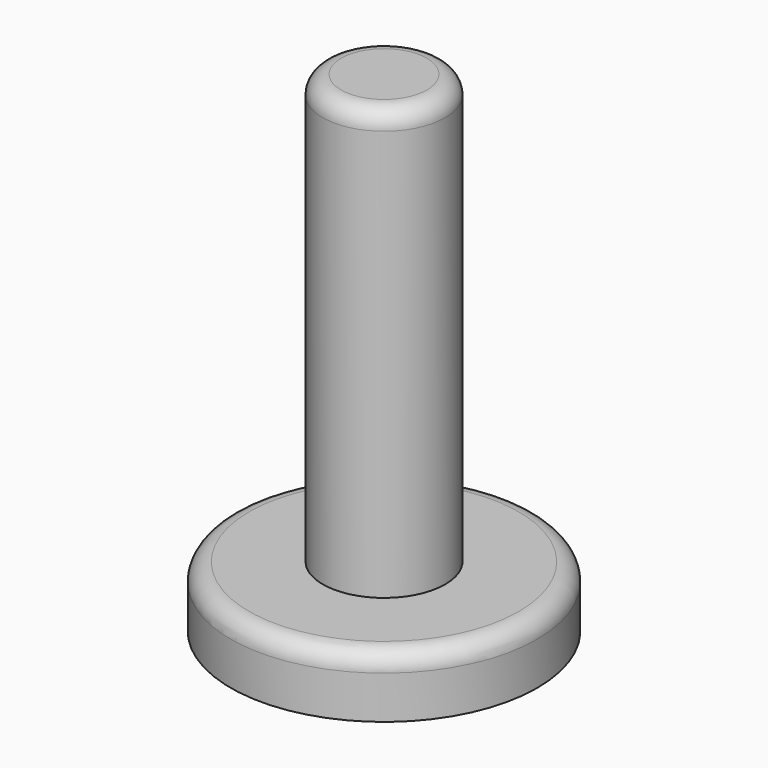
from build123d import *

# Parameters (mm, degrees)
F0_R     = 12.5
F1_DEPTH = 5
F2_R     = 5
F3_DEPTH = 35
F4_R     = 1.5
F4_2_R   = 1.5


with BuildPart() as f1:
    # F0 (on Top) → F1 (new body)
    with BuildSketch(Plane.XY):
        Circle(F0_R)
    extrude(amount=F1_DEPTH)

    # F4#2
    f4_2_edges = [f1.edges().sort_by_distance(p)[0] for p in [
        (-12.5, 0, 5),
    ]]
    fillet(f4_2_edges, radius=F4_2_R)


with BuildPart() as f3:
    # F2 (on face) → F3 (new body)
    with BuildSketch(Plane.XY.offset(5)):
        Circle(F2_R)
    extrude(amount=F3_DEPTH)

    # F4
    f4_edges = [f3.edges().sort_by_distance(p)[0] for p in [
        (-5, 0, 40),
    ]]
    fillet(f4_edges, radius=F4_R)


solid = Compound([f1.part, f3.part])
